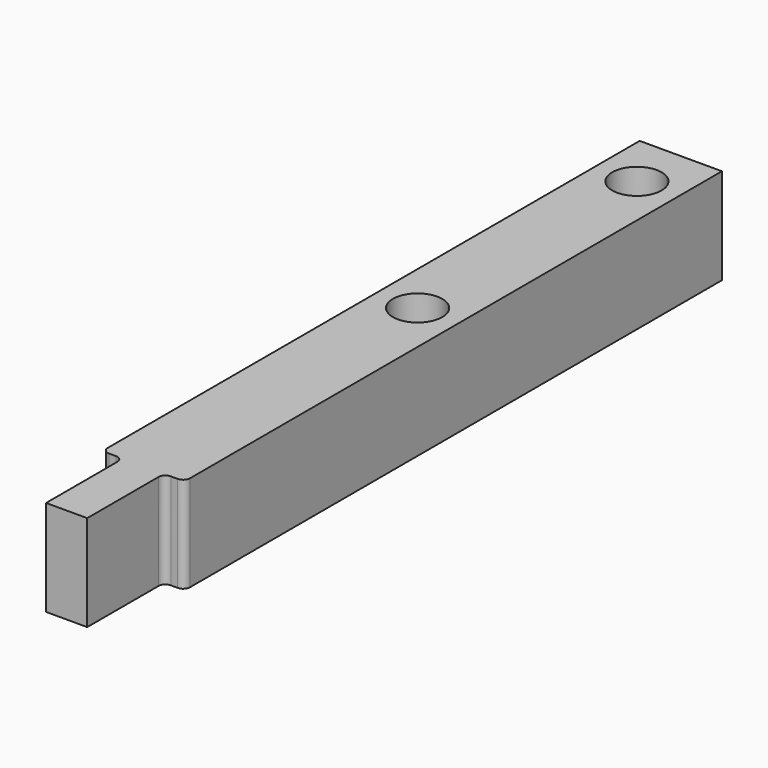
from build123d import *

# Parameters (mm, degrees)
F0_W     = 6
F0_H     = 56
F1_DEPTH = 7
F2_R     = 1.8
F3_DEPTH = 7.001
F4_W     = 1.5
F4_H     = 7
F5_DEPTH = 7.001
F6_R     = 0.5


with BuildPart() as f1:
    # F0 (on Top) → F1 (new body)
    with BuildSketch(Plane.XY):
        with Locations((3, 28)):
            Rectangle(F0_W, F0_H)
    extrude(amount=F1_DEPTH)

    # F2 (on face) → F3 (cut, through all)
    with BuildSketch(Plane.XY.offset(7)):
        with Locations((3, 52)):
            Circle(F2_R)
        with Locations((3, 32)):
            Circle(F2_R)
    extrude(amount=-F3_DEPTH, mode=Mode.SUBTRACT)

    # F4 (on face) → F5 (cut, through all)
    with BuildSketch(Plane.XY.offset(7)):
        with Locations((0.75, 3.5)):
            Rectangle(F4_W, F4_H)
        with Locations((5.25, 3.5)):
            Rectangle(F4_W, F4_H)
    extrude(amount=-F5_DEPTH, mode=Mode.SUBTRACT)

    # F6
    f6_edges = [f1.edges().sort_by_distance(p)[0] for p in [
        (6, 7, 3.5),
        (0, 7, 3.5),
        (4.5, 7, 3.5),
        (1.5, 7, 3.5),
    ]]
    fillet(f6_edges, radius=F6_R)


solid = f1.part
